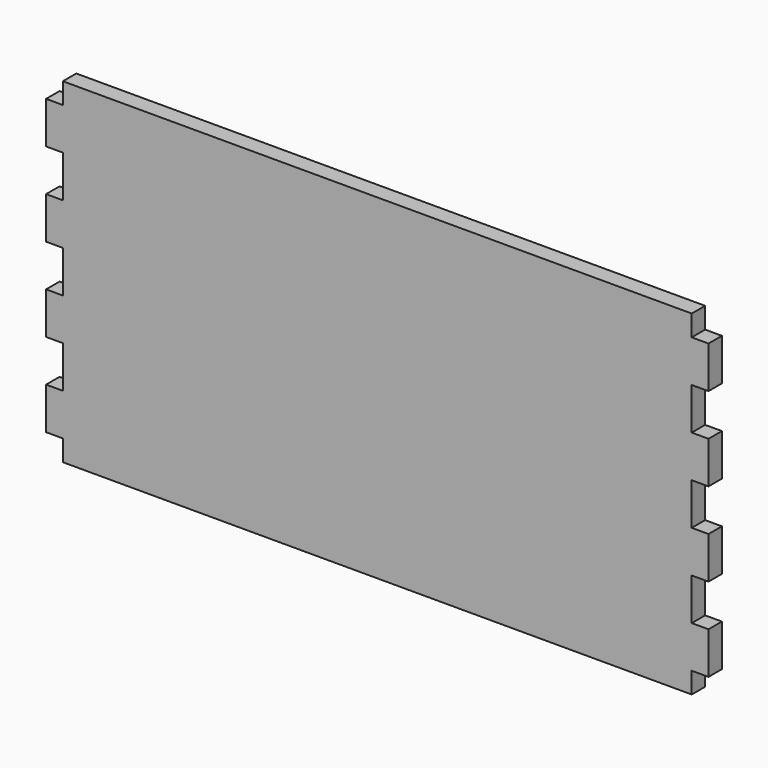
from build123d import *

# Parameters (mm, degrees)
F0_W     = 150
F0_H     = 80
F1_DEPTH = 4
F2_W     = 4
F2_H     = 10
F3_DEPTH = 4


with BuildPart() as f1:
    # F0 (on Front) → F1 (new body)
    with BuildSketch(Plane.XZ):
        with Locations((0, -1.305955)):
            Rectangle(F0_W, F0_H)
    extrude(amount=F1_DEPTH)

    # F2 (on face) → F3 (join)
    with BuildSketch(Plane.XZ.offset(4)):
        with Locations((-77, 28.694045)):
            Rectangle(F2_W, F2_H)
        with Locations((-77, 8.694045)):
            Rectangle(F2_W, F2_H)
        with Locations((-77, -11.305955)):
            Rectangle(F2_W, F2_H)
        with Locations((-77, -31.305955)):
            Rectangle(F2_W, F2_H)
        with Locations((77, 8.694045)):
            Rectangle(F2_W, F2_H)
        with Locations((77, 28.694045)):
            Rectangle(F2_W, F2_H)
        with Locations((77, -11.305955)):
            Rectangle(F2_W, F2_H)
        with Locations((77, -31.305955)):
            Rectangle(F2_W, F2_H)
    extrude(amount=-F3_DEPTH)


solid = f1.part
